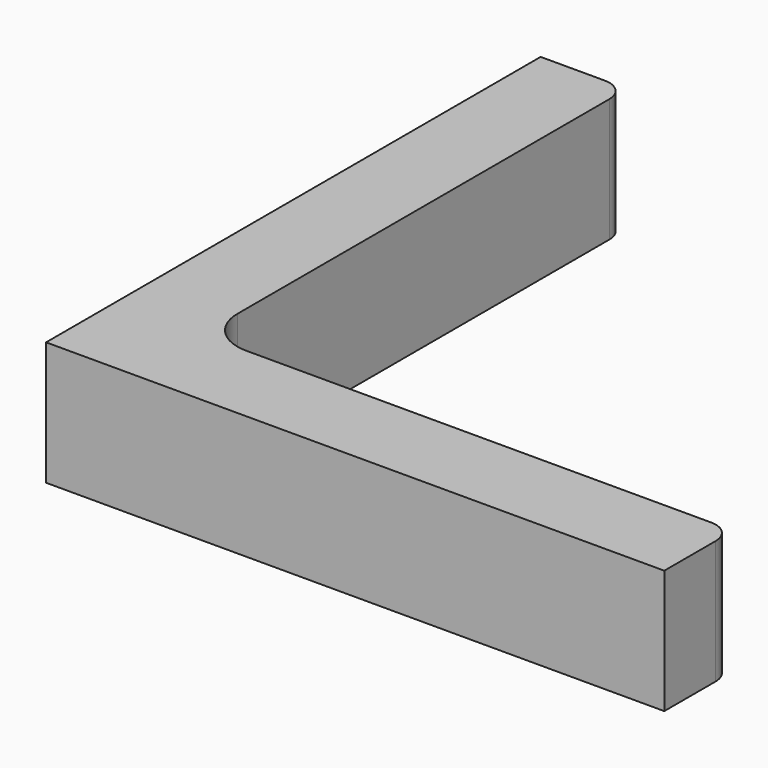
from build123d import *

# Parameters (mm, degrees)
EXTRUDE_DEPTH = 50


with BuildPart() as part:
    # Sketch → Extrude (new body)
    with BuildSketch(Plane.XY):
        with BuildLine():
            Line((0, 0), (250, 0))
            Line((250, 0), (250, 26))
            ThreePointArc((250, 26), (247.363961, 32.363961), (241, 35))
            Line((241, 35), (53, 35))
            ThreePointArc((35, 53), (40.272078, 40.272078), (53, 35))
            Line((35, 241), (35, 53))
            ThreePointArc((35, 241), (32.363961, 247.363961), (26, 250))
            Line((0, 250), (26, 250))
            Line((0, 0), (0, 250))
        make_face()
    extrude(amount=EXTRUDE_DEPTH)


solid = part.part
